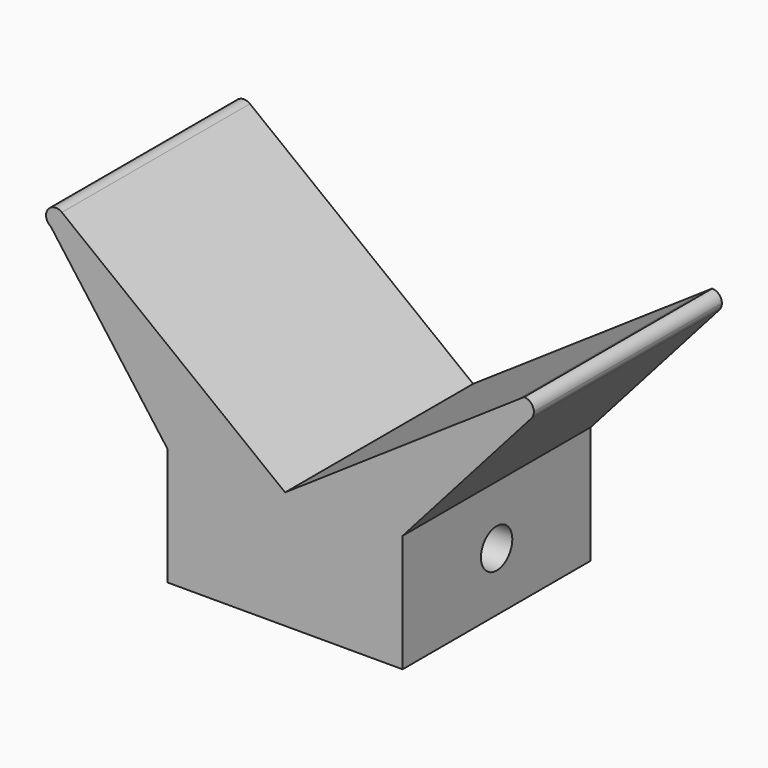
from build123d import *

# Parameters (mm, degrees)
F1_DEPTH = 76.2
F2_DEPTH = 211.582
F3_R     = 6.35
F4_DEPTH = 296.926


with BuildPart() as f1:
    # F0 (on Front) → F1 (new body)
    with BuildSketch(Plane.XZ):
        with BuildLine():
            Line((-75.994186, -26.958708), (-75.994186, -65.058708))
            Line((-75.994186, -65.058708), (0.205814, -65.058708))
            Line((0.205814, -65.058708), (0.205814, -26.958708))
            Line((0.205814, -26.958708), (41.952003, 20.148002))
            ThreePointArc((41.952003, 20.148002), (37.907157, 19.552642), (36.629202, 23.436206))
            Line((36.629202, 23.436206), (-37.894186, -26.958708))
            Line((-37.894186, -26.958708), (-110.240799, 29.427088))
            ThreePointArc((-110.240799, 29.427088), (-109.339718, 28.31636), (-109.017566, 26.922845))
            ThreePointArc((-109.017566, 26.922845), (-110.631205, 24.158288), (-113.831913, 24.203807))
            Line((-113.831913, 24.203807), (-75.994186, -26.958708))
        make_face()
        with BuildLine():
            ThreePointArc((36.629202, 23.436206), (37.907157, 19.552642), (41.952003, 20.148002))
            ThreePointArc((41.952003, 20.148002), (42.544402, 21.127687), (42.750814, 22.253792))
            ThreePointArc((42.750814, 22.253792), (41.820878, 24.498856), (39.575814, 25.428792))
            Line((39.575814, 25.428792), (36.629202, 23.436206))
        make_face()
        with BuildLine():
            ThreePointArc((-110.240799, 29.427088), (-114.808874, 28.721611), (-113.831913, 24.203807))
            ThreePointArc((-113.831913, 24.203807), (-110.631205, 24.158288), (-109.017566, 26.922845))
            ThreePointArc((-109.017566, 26.922845), (-109.339718, 28.31636), (-110.240799, 29.427088))
        make_face()
    extrude(amount=F1_DEPTH)

    # F1_face (on face) → F2 (cut)
    with BuildSketch(Plane(origin=(-38.414118, 0, -27.709483), x_dir=(1, 0, 0), z_dir=(0, 1, 0))):
        with BuildLine():
            Line((-37.580068, 37.349226), (-37.580068, -0.750774))
            Line((-37.580068, -0.750774), (-75.417795, -51.91329))
            ThreePointArc((-75.417795, -51.91329), (-76.394756, -56.431093), (-71.826681, -57.13657))
            Line((-71.826681, -57.13657), (0.519932, -0.750774))
            Line((0.519932, -0.750774), (77.989932, -53.138274))
            ThreePointArc((77.989932, -53.138274), (80.234996, -52.208338), (81.164932, -49.963274))
            ThreePointArc((81.164932, -49.963274), (80.958519, -48.837169), (80.366121, -47.857484))
            Line((80.366121, -47.857484), (38.619932, -0.750774))
            Line((38.619932, -0.750774), (38.619932, 37.349226))
            Line((38.619932, 37.349226), (-37.580068, 37.349226))
        make_face()
    extrude(amount=F2_DEPTH, mode=Mode.SUBTRACT)

    # F3 (on face) → F4 (cut)
    with BuildSketch(Plane.YZ.offset(0.205814)):
        with Locations((-38.1, -46.008708)):
            Circle(F3_R)
    extrude(amount=-F4_DEPTH, mode=Mode.SUBTRACT)


solid = f1.part
